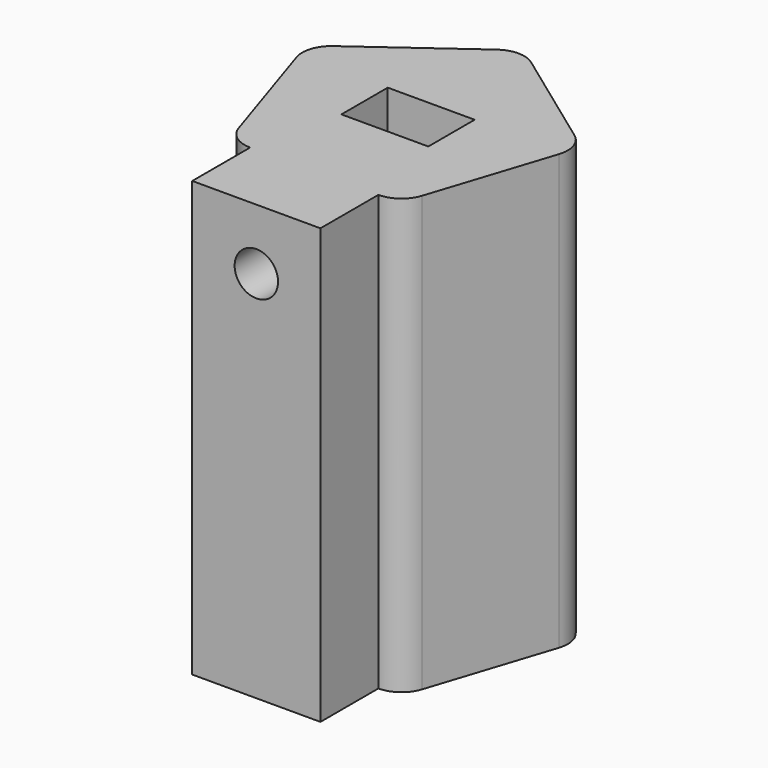
from build123d import *

# Parameters (mm, degrees)
F1_DEPTH = 150
F2_R     = 10
F4_W     = 30
F4_H     = 20
F5_DEPTH = 25
F6_R     = 7.5
F7_DEPTH = 10
F8_DEPTH = 25


with BuildPart() as f1:
    # F0 (on Top) → F1 (new body)
    with BuildSketch(Plane.XY):
        Polygon((0, 50), (-47.5528258148, 15.4508497187), (-29.3892626146, -40.4508497187), (29.3892626146, -40.4508497187), (47.5528258148, 15.4508497187), align=None)
    extrude(amount=F1_DEPTH)

    # F2
    f2_edges = [f1.edges().sort_by_distance(p)[0] for p in [
        (-29.389263, -40.45085, 75),
        (-47.552826, 15.45085, 75),
        (0, 50, 75),
        (47.552826, 15.45085, 75),
        (29.389263, -40.45085, 75),
    ]]
    fillet(f2_edges, radius=F2_R)

    # F4 (on face) → F5 (cut)
    with BuildSketch(Plane.XY.offset(150)):
        Rectangle(F4_W, F4_H)
    extrude(amount=-F5_DEPTH, mode=Mode.SUBTRACT)

    # F6 (on face) → F7 (cut)
    with BuildSketch(Plane.XZ.offset(40.4508497187)):
        with Locations((0, 129)):
            Circle(F6_R)
    extrude(amount=-F7_DEPTH, mode=Mode.SUBTRACT)

    # F8 (add): a face of the model
    f8_faces = [f1.faces().sort_by_distance(p)[0] for p in [
        (0, -40.4508497187, 73.5229190756),
    ]]
    extrude(f8_faces, amount=F8_DEPTH)


solid = f1.part
